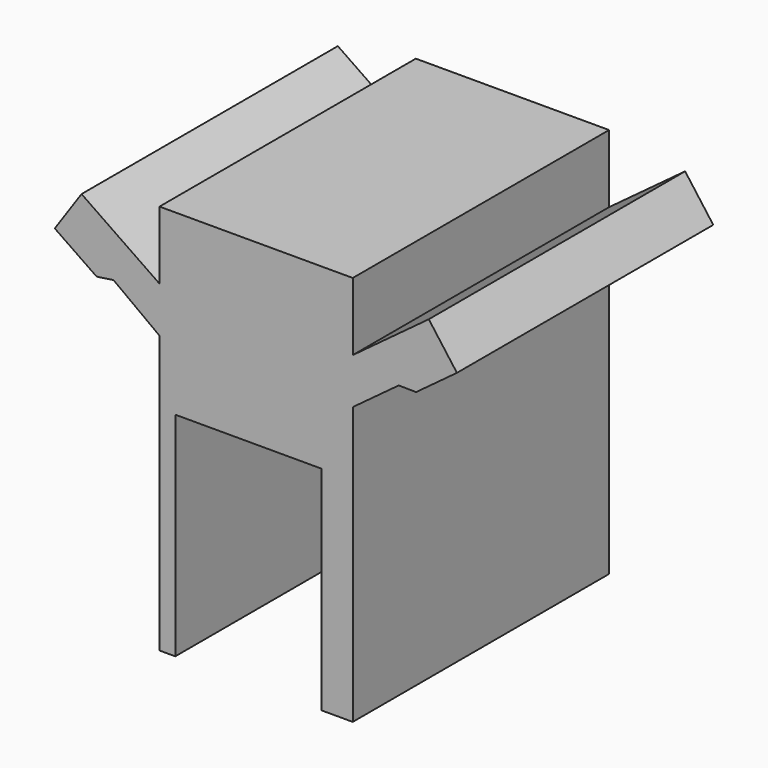
from build123d import *

# Parameters (mm, degrees)
F1_DEPTH = 800.1


with BuildPart() as f1:
    # F0 (on Front) → F1 (new body, symmetric)
    with BuildSketch(Plane.XZ):
        Polygon((-1302.331328, 0), (-1147.267534, 0), (-1147.267534, 1384.3), (-917.565436, 1554.270611), (-831.164002, 1552.946022), (-626.98436, 1704.03101), (-767.493399, 1893.918077), (-1147.267534, 1612.9), (-1147.267534, 1951.950783), (-2112.467534, 1951.950783), (-2112.467534, 1612.9), (-2501.81771, 1880.492963), (-2635.614192, 1685.817874), (-2426.341646, 1541.869962), (-2342.169632, 1554.270611), (-2112.467534, 1384.3), (-2112.467534, 0), (-2033.727534, 0), (-2033.727534, 1062.69436), (-1302.331328, 1062.69436), align=None)
    extrude(amount=F1_DEPTH, both=True)


solid = f1.part
